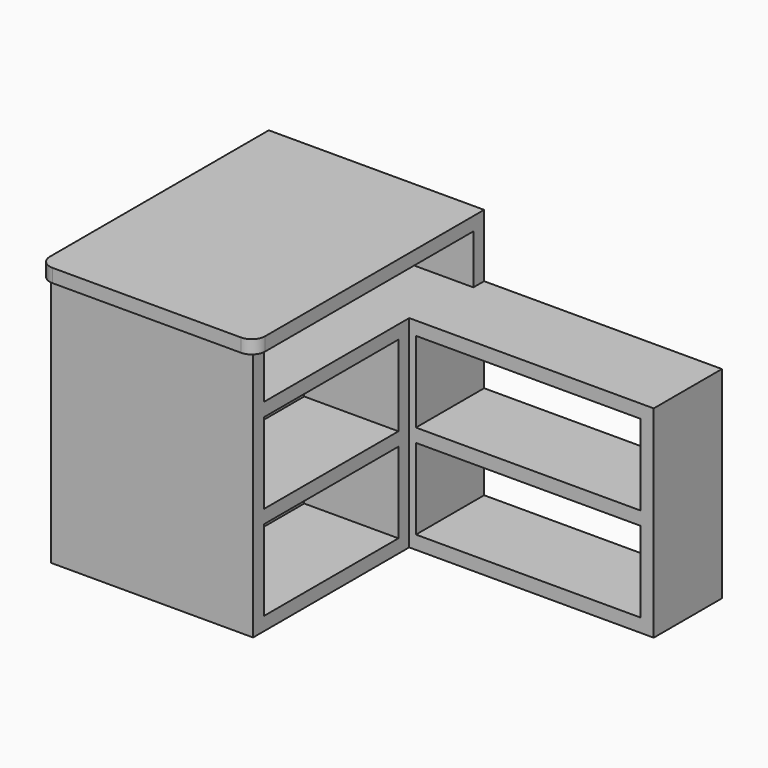
from build123d import *

# Parameters (mm, degrees)
F1_DEPTH       = 38.1
F2_DEPTH       = 711.2
F0_W           = 654.05
F0_H           = 222.25
F3_DEPTH       = 711.2
F4_W           = 673.1
F4_H           = 139.7
F4_W_2         = 635
F4_H_2         = 228.6
F5_DEPTH       = 406.401
F0_W_2         = 19.05
F0_H_2         = 19.05
F6_DEPTH       = 38.1
F7_DEPTH       = 711.2
F8_W           = 476.25
F8_H           = 139.7
F8_W_2         = 241.3
F8_H_2         = 228.6
F9_DEPTH       = 406.4
F10_W          = 203.2
F10_H          = 228.6
F11_DEPTH      = 609.6
F11_DEPTH_BACK = 266.7
F13_START      = -152.4
F12_W          = 38.1
F12_H          = 552.45
F13_DEPTH      = 558.8


with BuildPart() as f1:
    # F0 (on Top) → F1 (new body)
    with BuildSketch(Plane.XY):
        Polygon((285.75, 184.15), (304.8, 184.15), (304.8, 406.4), (-285.75, 406.4), (-285.75, -387.35), (285.75, -387.35), (285.75, 165.1), align=None)
        with BuildLine():
            Line((-266.7, -406.4), (266.7, -406.4))
            ThreePointArc((266.7, -406.4), (293.6407683632, -395.2407683632), (304.8, -368.3))
            Line((304.8, -368.3), (304.8, 165.1))
            Line((304.8, 165.1), (285.75, 165.1))
            Line((285.75, 165.1), (285.75, -387.35))
            Line((285.75, -387.35), (-285.75, -387.35))
            Line((-285.75, -387.35), (-285.75, 406.4))
            Line((-285.75, 406.4), (-304.8, 406.4))
            Line((-304.8, 406.4), (-304.8, -368.3))
            ThreePointArc((-304.8, -368.3), (-293.6407683632, -395.2407683632), (-266.7, -406.4))
        make_face()
    extrude(amount=F1_DEPTH)



with BuildPart() as f2:
    # F0 (on Top) → F2 (new body)
    with BuildSketch(Plane.XY):
        Polygon((285.75, 184.15), (304.8, 184.15), (304.8, 406.4), (-285.75, 406.4), (-285.75, -387.35), (285.75, -387.35), (285.75, 165.1), align=None)
    extrude(amount=-F2_DEPTH)


with BuildPart() as f3:
    # F0 (on Top) → F3 (new body)
    with BuildSketch(Plane.XY):
        with Locations((631.825, 295.275)):
            Rectangle(F0_W, F0_H)
        Polygon((304.8, 184.15), (304.8, 165.1), (305.019557476, 165.1), (977.9, 165.1), (977.9, 406.4), (958.85, 406.4), (958.85, 184.15), align=None)
    extrude(amount=-F3_DEPTH)

    # F4 (on Front) → F5 (cut, through all)
    with BuildSketch(Plane.XZ):
        with Locations((641.35, -69.85)):
            Rectangle(F4_W, F4_H)
        with Locations((622.3, -292.1)):
            Rectangle(F4_W_2, F4_H_2)
        with Locations((622.3, -558.8)):
            Rectangle(F4_W_2, F4_H_2)
    extrude(amount=-F5_DEPTH, mode=Mode.SUBTRACT)


with BuildPart() as f1_1:
    add(f1.part)

    add(f2.part)  # F6 merges F2
    # F0 (on Top) → F6 (join)
    with BuildSketch(Plane.XY):
        with Locations((295.275, 174.625)):
            Rectangle(F0_W_2, F0_H_2)
    extrude(amount=F6_DEPTH)


    add(f3.part)  # F7 merges F3
    # F0 (on Top) → F7 (join)
    with BuildSketch(Plane.XY):
        with Locations((295.275, 174.625)):
            Rectangle(F0_W_2, F0_H_2)
    extrude(amount=-F7_DEPTH)

    # F8 (on Right) → F9 (cut, symmetric)
    with BuildSketch(Plane.YZ):
        with Locations((-111.125, -69.85)):
            Rectangle(F8_W, F8_H)
        with Locations((247.65, -69.85)):
            Rectangle(F8_W_2, F8_H)
        with Locations((-111.125, -292.1)):
            Rectangle(F8_W, F8_H_2)
        with Locations((-111.125, -558.8)):
            Rectangle(F8_W, F8_H_2)
    extrude(amount=F9_DEPTH, both=True, mode=Mode.SUBTRACT)

    # F10 (on Right) → F11 (cut, two sides)
    with BuildSketch(Plane.YZ) as f11_sk:
        with Locations((266.7, -292.1)):
            Rectangle(F10_W, F10_H)
        with Locations((266.7, -558.8)):
            Rectangle(F10_W, F10_H)
    extrude(amount=-F11_DEPTH, mode=Mode.SUBTRACT)
    extrude(f11_sk.sketch, amount=F11_DEPTH_BACK, mode=Mode.SUBTRACT)

    # F12 (on Top) → F13 (join)
    with BuildSketch(Plane.XY.offset(F13_START)):
        with Locations((0, -111.125)):
            Rectangle(F12_W, F12_H)
    extrude(amount=-F13_DEPTH)


solid = f1_1.part
